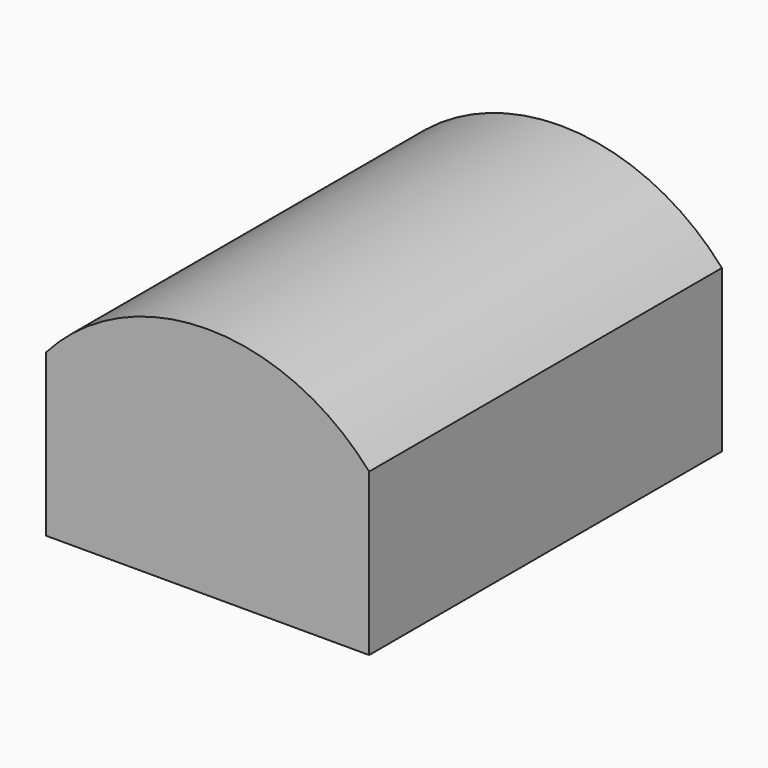
from build123d import *

# Parameters (mm, degrees)
F1_DEPTH = 81.9


with BuildPart() as f1:
    # F0 (on Front) → F1 (new body)
    with BuildSketch(Plane.XZ):
        Polygon((29.204631, 13.177249), (-30.795369, 13.177249), (-30.795369, -16.822751), (29.204631, -16.822751), (29.204631, 0), (29.204631, 2.165846), align=None)
        with BuildLine():
            ThreePointArc((29.204631, 13.177249), (-0.795369, 26.719736), (-30.795369, 13.177249))
            Line((-30.795369, 13.177249), (29.204631, 13.177249))
        make_face()
    extrude(amount=F1_DEPTH)


solid = f1.part
